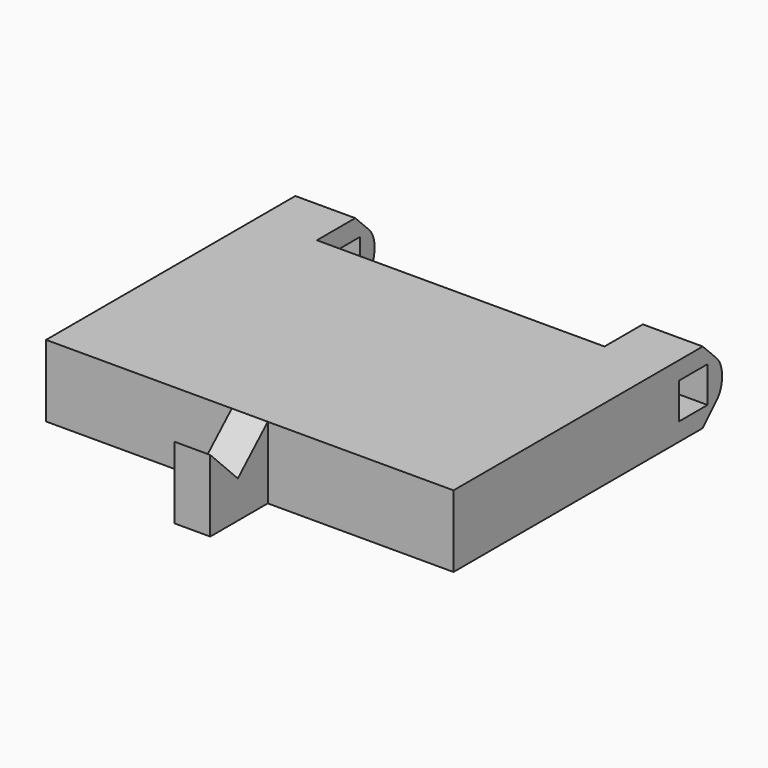
from build123d import *

# Parameters (mm, degrees)
F0_W      = 17
F0_H      = 11
F1_DEPTH  = 3
F2_W      = 12
F2_H      = 3
F3_DEPTH  = 3.001
F4_W      = 1.5
F4_H      = 1.5
F5_DEPTH  = 100
F6_SIZE   = 1
F7_SIZE   = 1
F8_R      = 1
F9_DEPTH  = 3
F10_W     = 1.5
F10_H     = 3
F11_DEPTH = 3
F13_DEPTH = 9.251
F14_W     = 1.5
F14_H     = 1.416422517
F15_DEPTH = 25


with BuildPart() as f1:
    # F0 (on Top) → F1 (new body)
    with BuildSketch(Plane.XY):
        Rectangle(F0_W, F0_H)
    extrude(amount=F1_DEPTH)

    # F2 (on face) → F3 (cut, through all)
    with BuildSketch(Plane.XY.offset(3)):
        with Locations((0, 4)):
            Rectangle(F2_W, F2_H)
    extrude(amount=-F3_DEPTH, mode=Mode.SUBTRACT)

    # F4 (on face) → F5 (cut)
    with BuildSketch(Plane(origin=(6, 0, 0), x_dir=(0, -1, 0), z_dir=(-1, 0, 0))):
        with Locations((-4, 1.5)):
            Rectangle(F4_W, F4_H)
    extrude(amount=-F5_DEPTH, mode=Mode.SUBTRACT)

    # F6
    f6_edges = [f1.edges().sort_by_distance(p)[0] for p in [
        (-7.25, 5.5, 3),
        (7.25, 5.5, 3),
    ]]
    chamfer(f6_edges, length=F6_SIZE)

    # F7
    f7_edges = [f1.edges().sort_by_distance(p)[0] for p in [
        (-7.25, 5.5, 0),
        (7.25, 5.5, 0),
    ]]
    chamfer(f7_edges, length=F7_SIZE)

    # F8
    f8_edges = [f1.edges().sort_by_distance(p)[0] for p in [
        (-7.25, 5.5, 2),
        (7.25, 5.5, 2),
        (-7.25, 5.5, 1),
        (7.25, 5.5, 1),
    ]]
    fillet(f8_edges, radius=F8_R)

    # F9 (add): a face of the model
    f9_faces = [f1.faces().sort_by_distance(p)[0] for p in [
        (0, -5.5, 1.5),
    ]]
    extrude(f9_faces, amount=F9_DEPTH)

    # F10 (on face) → F11 (join)
    with BuildSketch(Plane.XZ.offset(8.5)):
        with Locations((0, 1.5)):
            Rectangle(F10_W, F10_H)
    extrude(amount=F11_DEPTH)

    # F12 (on face) → F13 (cut, through all)
    with BuildSketch(Plane.YZ.offset(0.75)):
        Polygon((-8.5, 3), (-11.5, 3), (-10.0618377328, 1.5503217001), align=None)
    extrude(amount=-F13_DEPTH, mode=Mode.SUBTRACT)

    # F14 (on face) → F15 (cut)
    with BuildSketch(Plane.YZ.offset(-6)):
        with Locations((4, 1.5)):
            Rectangle(F14_W, F14_H)
    extrude(amount=-F15_DEPTH, mode=Mode.SUBTRACT)


solid = f1.part
